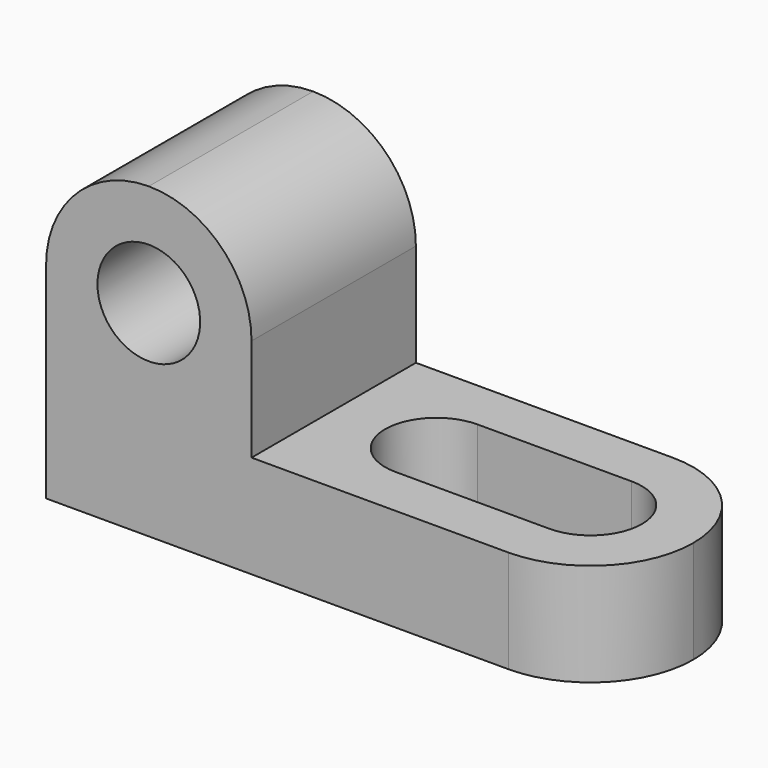
from build123d import *

# Parameters (mm, degrees)
F1_DEPTH = 25.4
F3_DEPTH = 25.401
F5_DEPTH = 12.701


with BuildPart() as f1:
    # F0 (on Front) → F1 (new body)
    with BuildSketch(Plane.XZ):
        with BuildLine():
            Line((-50.6834854264, 38.1), (-50.6834854264, 25.4))
            ThreePointArc((-50.6834854264, 25.4), (-46.9637415475, 34.3802561211), (-37.9834854264, 38.1))
            Line((-37.9834854264, 38.1), (-50.6834854264, 38.1))
        make_face()
        with BuildLine():
            ThreePointArc((-37.9834854264, 38.1), (-46.9637415475, 34.3802561211), (-50.6834854264, 25.4))
            Line((-50.6834854264, 25.4), (-44.3334854264, 25.4))
            ThreePointArc((-44.3334854264, 25.4), (-37.9834854264, 31.75), (-31.6334854264, 25.4))
            Line((-31.6334854264, 25.4), (-25.2834854264, 25.4))
            ThreePointArc((-25.2834854264, 25.4), (-29.0032293053, 34.3802561211), (-37.9834854264, 38.1))
        make_face()
        with BuildLine():
            Line((-25.2834854264, 38.1), (-37.9834854264, 38.1))
            ThreePointArc((-37.9834854264, 38.1), (-29.0032293053, 34.3802561211), (-25.2834854264, 25.4))
            Line((-25.2834854264, 25.4), (-25.2834854264, 38.1))
        make_face()
        with BuildLine():
            ThreePointArc((-31.6334854264, 25.4), (-37.9834854264, 31.75), (-44.3334854264, 25.4))
            Line((-44.3334854264, 25.4), (-31.6334854264, 25.4))
        make_face()
        with BuildLine():
            Line((-31.6334854264, 25.4), (-44.3334854264, 25.4))
            ThreePointArc((-44.3334854264, 25.4), (-37.9834854264, 19.05), (-31.6334854264, 25.4))
        make_face()
        with BuildLine():
            Line((-50.6834854264, 25.4), (-50.6834854264, 0))
            Line((-50.6834854264, 0), (19.1665145736, 0))
            Line((19.1665145736, 0), (19.1665145736, 12.7))
            Line((19.1665145736, 12.7), (-25.2834854264, 12.7))
            Line((-25.2834854264, 12.7), (-25.2834854264, 25.4))
            Line((-25.2834854264, 25.4), (-31.6334854264, 25.4))
            ThreePointArc((-31.6334854264, 25.4), (-37.9834854264, 19.05), (-44.3334854264, 25.4))
            Line((-44.3334854264, 25.4), (-50.6834854264, 25.4))
        make_face()
    extrude(amount=F1_DEPTH)

    # F2 (on face) → F3 (cut, through all)
    with BuildSketch(Plane.XZ.offset(25.4)):
        with BuildLine():
            ThreePointArc((-50.6834854264, 25.4), (-46.9637415475, 34.3802561211), (-37.9834854264, 38.1))
            Line((-37.9834854264, 38.1), (-50.6834854264, 38.1))
            Line((-50.6834854264, 38.1), (-50.6834854264, 25.4))
        make_face()
        with BuildLine():
            ThreePointArc((-37.9834854264, 38.1), (-29.0032293053, 34.3802561211), (-25.2834854264, 25.4))
            Line((-25.2834854264, 25.4), (-25.2834854264, 38.1))
            Line((-25.2834854264, 38.1), (-37.9834854264, 38.1))
        make_face()
        with BuildLine():
            Line((-44.3334854264, 25.4), (-31.6334854264, 25.4))
            ThreePointArc((-31.6334854264, 25.4), (-37.9834854264, 31.75), (-44.3334854264, 25.4))
        make_face()
        with BuildLine():
            ThreePointArc((-44.3334854264, 25.4), (-37.9834854264, 19.05), (-31.6334854264, 25.4))
            Line((-31.6334854264, 25.4), (-44.3334854264, 25.4))
        make_face()
    extrude(amount=-F3_DEPTH, mode=Mode.SUBTRACT)

    # F4 (on face) → F5 (cut, through all)
    with BuildSketch(Plane.XY.offset(12.7)):
        with BuildLine():
            ThreePointArc((-6.2334854264, -12.7), (-8.0933573659, -8.2098719395), (-12.5834854264, -6.35))
            Line((-12.5834854264, -6.35), (-12.5834854264, -19.05))
            ThreePointArc((-12.5834854264, -19.05), (-8.0933573659, -17.1901280605), (-6.2334854264, -12.7))
        make_face()
        with BuildLine():
            Line((-12.5834854264, -19.05), (-12.5834854264, -6.35))
            ThreePointArc((-12.5834854264, -6.35), (-18.9334854264, -12.7), (-12.5834854264, -19.05))
        make_face()
        with BuildLine():
            Line((6.4665145736, -6.35), (-12.5834854264, -6.35))
            ThreePointArc((-12.5834854264, -6.35), (-8.0933573659, -8.2098719395), (-6.2334854264, -12.7))
            ThreePointArc((-6.2334854264, -12.7), (-8.0933573659, -17.1901280605), (-12.5834854264, -19.05))
            Line((-12.5834854264, -19.05), (6.4665145736, -19.05))
            ThreePointArc((6.4665145736, -19.05), (0.1165145736, -12.7), (6.4665145736, -6.35))
        make_face()
        with BuildLine():
            Line((6.4665145736, -19.05), (6.4665145736, -6.35))
            ThreePointArc((6.4665145736, -6.35), (0.1165145736, -12.7), (6.4665145736, -19.05))
        make_face()
        with BuildLine():
            ThreePointArc((12.8165145736, -12.7), (10.9566426341, -8.2098719395), (6.4665145736, -6.35))
            Line((6.4665145736, -6.35), (6.4665145736, -19.05))
            ThreePointArc((6.4665145736, -19.05), (10.9566426341, -17.1901280605), (12.8165145736, -12.7))
        make_face()
        with BuildLine():
            Line((19.1665145736, 0), (6.4665145736, 0))
            ThreePointArc((6.4665145736, 0), (15.4467706947, -3.7197438789), (19.1665145736, -12.7))
            Line((19.1665145736, -12.7), (19.1665145736, 0))
        make_face()
        with BuildLine():
            Line((19.1665145736, -25.4), (19.1665145736, -12.7))
            ThreePointArc((19.1665145736, -12.7), (15.4467706947, -21.6802561211), (6.4665145736, -25.4))
            Line((6.4665145736, -25.4), (19.1665145736, -25.4))
        make_face()
    extrude(amount=-F5_DEPTH, mode=Mode.SUBTRACT)


solid = f1.part
